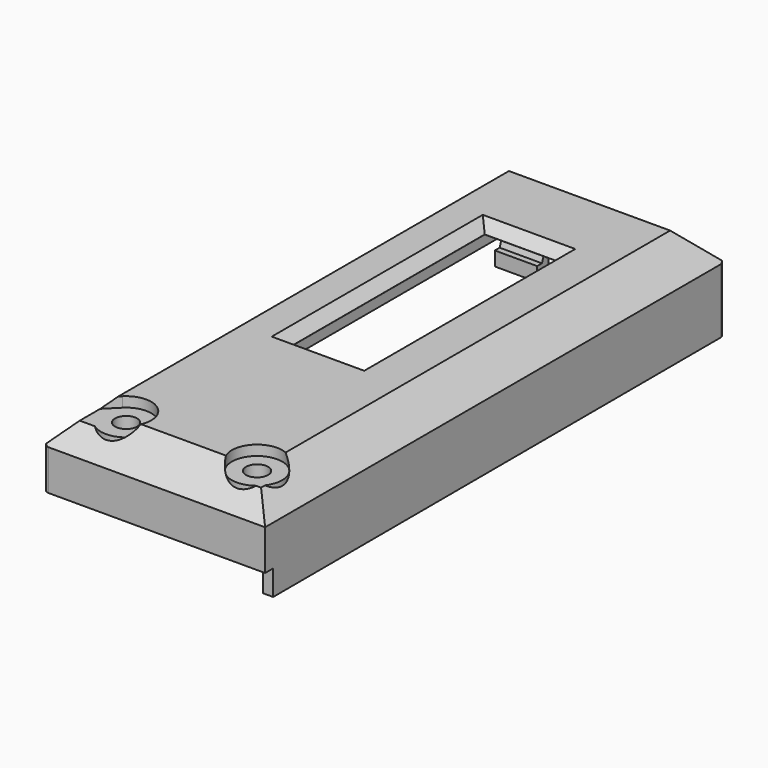
from build123d import *

# Parameters (mm, degrees)
SKETCH_W        = 22
SKETCH_H        = 57
PAD_DEPTH       = 7
CHAMFER_SIZE    = 3
THICKNESS_T     = -1
SKETCH001_R     = 4.15
POCKET_DEPTH    = 5
POCKET001_DEPTH = 5
SKETCH003_R     = 2.5
PAD001_DEPTH    = 3.6
POCKET002_DEPTH = 1
SKETCH005_R     = 1.1
POCKET003_DEPTH = 5
SKETCH007_W     = 4.2
SKETCH007_H     = 1
PAD002_DEPTH    = 2.4
POCKET005_DEPTH = 19
PAD003_DEPTH    = 1
FILLET_R        = 0.5
SKETCH006_W     = 7.2
SKETCH006_H     = 24.2
POCKET006_DEPTH = 5
CHAMFER002_SIZE = 0.99
PAD004_DEPTH    = 4.2
PAD005_DEPTH    = 3.2


with BuildPart() as part:
    # Sketch → Pad (new body)
    with BuildSketch(Plane.XY):
        Rectangle(SKETCH_W, SKETCH_H)
    extrude(amount=PAD_DEPTH)

    # Chamfer
    chamfer_edges = [part.edges().sort_by_distance(p)[0] for p in [
        (0, -28.5, 7),
        (11, 0, 7),
        (0, 28.5, 7),
        (-11, 0, 7),
    ]]
    chamfer(chamfer_edges, length=CHAMFER_SIZE)

    # Thickness
    thickness_openings = [part.faces().sort_by_distance(p)[0] for p in [
        (0, 0, 0),
    ]]
    offset(amount=THICKNESS_T, openings=thickness_openings)

    # Sketch001 (on Face2 of Thickness) → Pocket (cut)
    with BuildSketch(Plane(origin=(-11, 0, 0), x_dir=(0, -1, 0), z_dir=(-1, 0, 0))):
        with Locations((18.5, 0.2)):
            Circle(SKETCH001_R)
    extrude(amount=-POCKET_DEPTH, mode=Mode.SUBTRACT)

    # Sketch002 (on Face15 of Pocket) → Pocket001 (cut)
    with BuildSketch(Plane(origin=(0, 28.5, 0), x_dir=(-1, 0, 0), z_dir=(0, 1, 0))):
        with BuildLine():
            Line((-6.8, -1), (-6.8, 2.8))
            ThreePointArc((-5.2, 4.4), (-6.331371, 3.931371), (-6.8, 2.8))
            Line((-5.2, 4.4), (3.6, 4.4))
            ThreePointArc((5.2, 2.8), (4.731371, 3.931371), (3.6, 4.4))
            Line((5.2, 2.8), (5.2, -1))
            ThreePointArc((3.6, -2.6), (4.731371, -2.131371), (5.2, -1))
            Line((3.6, -2.6), (-5.2, -2.6))
            ThreePointArc((-6.8, -1), (-6.331371, -2.131371), (-5.2, -2.6))
        make_face()
    extrude(amount=-POCKET001_DEPTH, mode=Mode.SUBTRACT)

    # Sketch003 → Pad001 (join)
    with BuildSketch(Plane.XY.offset(6)):
        with Locations((-6, -24.5)):
            Circle(SKETCH003_R)
        with Locations((7, -24.5)):
            Circle(SKETCH003_R)
    extrude(amount=-PAD001_DEPTH)

    # Sketch004 → Pocket002 (cut)
    with BuildSketch(Plane.XY.offset(7)):
        with BuildLine():
            ThreePointArc((-6, -27), (-3.690301, -23.543291), (-7.767767, -22.732233))
            Line((-7.767767, -22.732233), (-12.035534, -27))
            Line((-12.035534, -27), (-6, -27))
        make_face()
        with BuildLine():
            ThreePointArc((9.5, -24.5), (5.232233, -22.732233), (7, -27))
            Line((9.5, -27), (7, -27))
            Line((9.5, -24.5), (9.5, -27))
        make_face()
    extrude(amount=-POCKET002_DEPTH, mode=Mode.SUBTRACT)

    # Sketch005 → Pocket003 (cut)
    with BuildSketch(Plane.XY.offset(7)):
        with Locations((-6, -24.5)):
            Circle(SKETCH005_R)
        with Locations((7, -24.5)):
            Circle(SKETCH005_R)
    extrude(amount=-POCKET003_DEPTH, mode=Mode.SUBTRACT)

    # Sketch007 (on Face4 of Pocket003) → Pad002 (join)
    with BuildSketch(Plane(origin=(0, 0, 0), x_dir=(1, 0, 0), z_dir=(0, 0, -1))):
        with Locations((8.9, -28)):
            Rectangle(SKETCH007_W, SKETCH007_H)
    extrude(amount=PAD002_DEPTH)

    # Sketch008 (on Face18 of Pad002) → Pocket005 (cut)
    with BuildSketch(Plane(origin=(10, 0, 0), x_dir=(0, -1, 0), z_dir=(-1, 0, 0))):
        Polygon((27, 0), (27, 2.4), (22, 2.6), (22, 0), align=None)
    extrude(amount=POCKET005_DEPTH, mode=Mode.SUBTRACT)

    # Sketch009 (on Face5 of Pocket005) → Pad003 (join)
    with BuildSketch(Plane.YZ.offset(11)):
        Polygon((27.5, 0), (27.5, -2.4), (-27.5, -2.5), (-27.5, 0), align=None)
    extrude(amount=-PAD003_DEPTH)

    # Fillet
    fillet_edges = [part.edges().sort_by_distance(p)[0] for p in [
        (11, 28.5, -1.2),
        (11, 28.5, 2),
        (-11, -28.5, 2),
        (-11, 28.5, 2),
    ]]
    fillet(fillet_edges, radius=FILLET_R)

    # Sketch006 (on Face11 of Pocket003) → Pocket006 (cut)
    with BuildSketch(Plane.XY.offset(7)):
        with Locations((-0.4, 5.4)):
            Rectangle(SKETCH006_W, SKETCH006_H)
    extrude(amount=-POCKET006_DEPTH, mode=Mode.SUBTRACT)

    # Chamfer002
    chamfer002_edges = [part.edges().sort_by_distance(p)[0] for p in [
        (-0.4, 17.5, 7),
        (3.2, 5.4, 7),
        (-0.4, -6.7, 7),
        (-4, 5.4, 7),
    ]]
    chamfer(chamfer002_edges, length=CHAMFER002_SIZE)

    # Sketch011 (on Face52 of Chamfer002) → Pad004 (join)
    with BuildSketch(Plane.YZ.offset(-9.4)):
        Polygon((27.5, 3.585786), (27.5, 0), (26.9, 0), (26.9, -1.8), (25.5, -1.8), (25.5, -0.4), (26.1, -0.4), align=None)
    extrude(amount=PAD004_DEPTH)

    # Sketch012 (on Face72 of Pad004) → Pad005 (join)
    with BuildSketch(Plane(origin=(10, 0, 0), x_dir=(0, -1, 0), z_dir=(-1, 0, 0))):
        Polygon((-27.5, 1.7), (-27.5, -1.8), (-25.5, -1.8), (-25.5, -0.4), (-27, -0.4), (-27, 0.8), align=None)
    extrude(amount=PAD005_DEPTH)


solid = part.part
